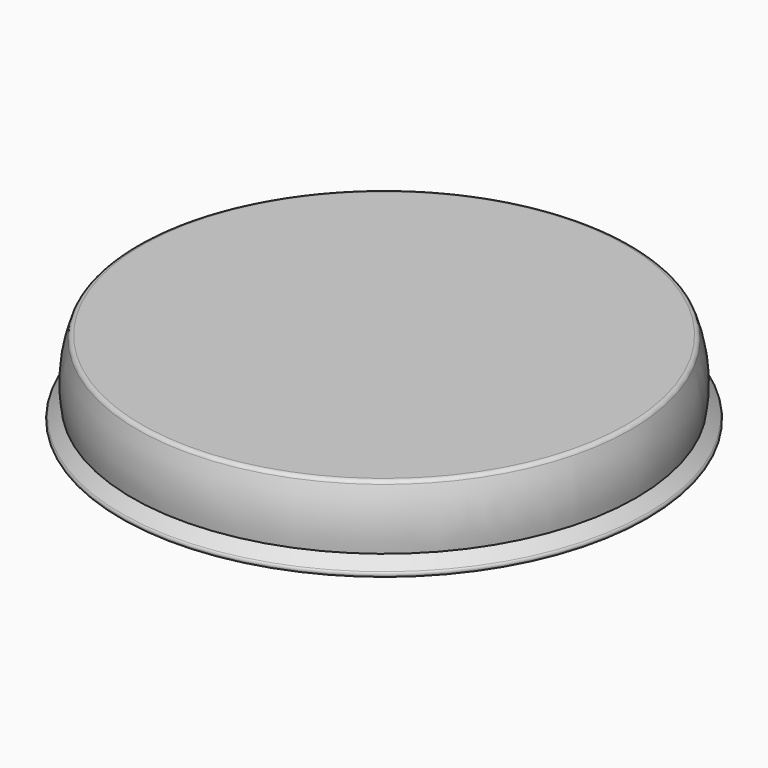
from build123d import *

# Parameters (mm, degrees)
F2_R = 0.508
F3_R = 0.762


with BuildPart() as f1:
    # F0 (on Front) → F1 (revolve)
    with BuildSketch(Plane.XZ):
        with BuildLine():
            Line((40.6285012155, 12.7), (0, 12.7))
            Line((0, 12.7), (0, 0))
            Line((0, 0), (44.45, 0))
            Line((44.45, 0), (41.672429197, 2.54))
            ThreePointArc((41.672429197, 2.54), (41.8440575591, 7.6912657938), (40.6285012155, 12.7))
        make_face()
    revolve(axis=Axis((0, 0, 5.215363577), (0, 0, -1)))

    # F2
    f2_edges = [f1.edges().sort_by_distance(p)[0] for p in [
        (-44.45, 0, 0),
    ]]
    fillet(f2_edges, radius=F2_R)

    # F3
    f3_edges = [f1.edges().sort_by_distance(p)[0] for p in [
        (-40.628501, 0, 12.7),
    ]]
    fillet(f3_edges, radius=F3_R)


solid = f1.part
